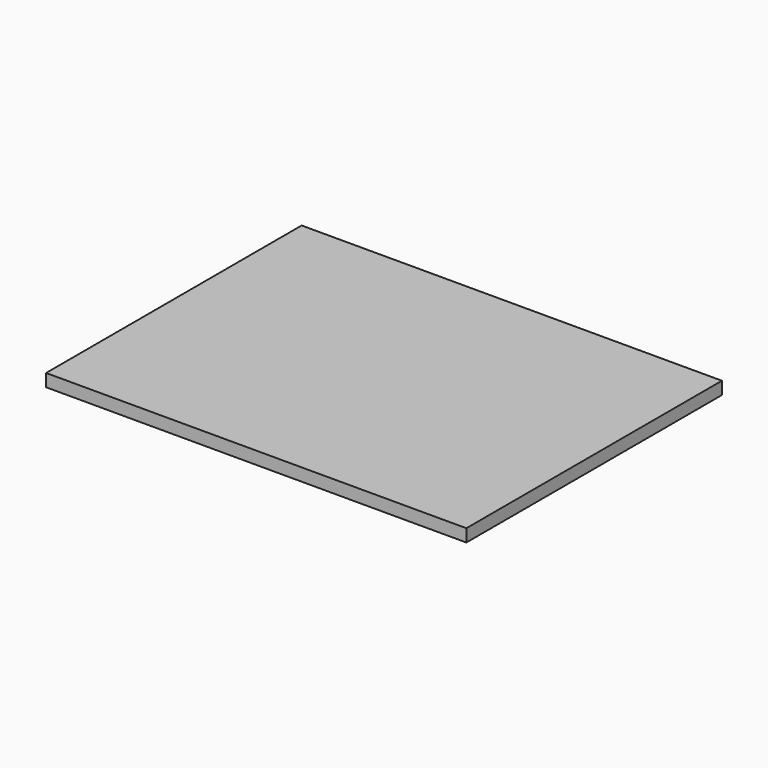
from build123d import *

# Parameters (mm, degrees)
SKETCH_W  = 600
SKETCH_H  = 456
PAD_DEPTH = 18


with BuildPart() as part:
    # Sketch → Pad (new body)
    with BuildSketch(Plane.XY):
        with Locations((-300, 228)):
            Rectangle(SKETCH_W, SKETCH_H)
    extrude(amount=PAD_DEPTH)


solid = part.part
